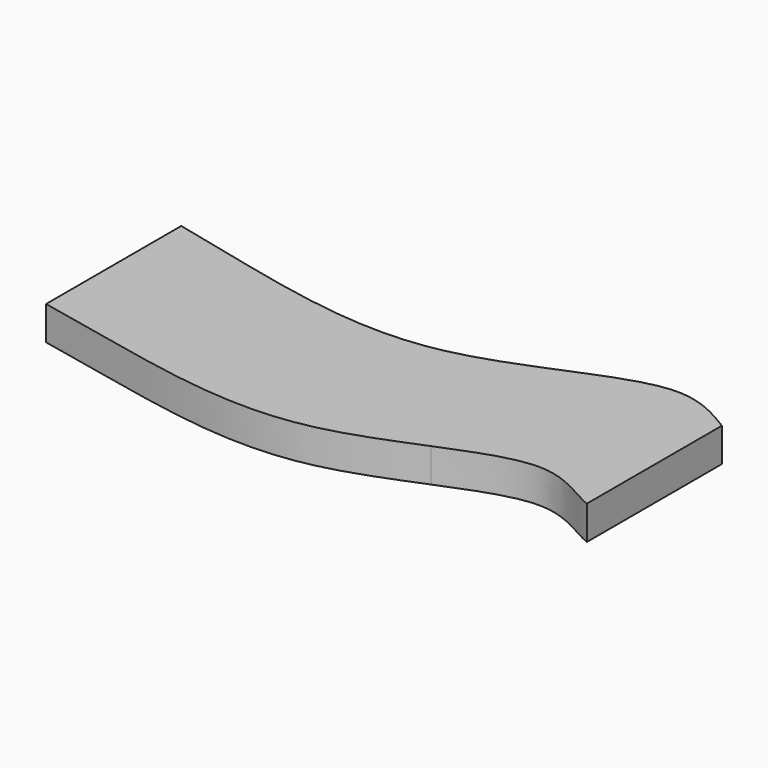
from build123d import *

# Parameters (mm, degrees)
F1_DEPTH = 12.7


with BuildPart() as f1:
    # F0 (on Top) → F1 (new body)
    with BuildSketch(Plane.XY):
        with BuildLine():
            Line((86.7375563659, -9.5659682199), (-57.8874200583, -9.5659682199))
            add(Edge.make_bspline(
                [(-57.8874200583, -9.5659682199), (-15.5372899026, -18.0853269994), (31.1257096461, -32.5612871735), (75.3183046829, -14.2258941015), (86.7375563659, -9.5659682199)],
                knots=[0, 0, 0, 0, 0.4315025265, 0.5995713788, 0.5995713788, 0.5995713788, 0.5995713788], degree=3))
        make_face()
        with BuildLine():
            add(Edge.make_bspline(
                [(-57.8874200583, 53.9340317801), (-15.5372899026, 44.1508069634), (32.8896853146, 28.926877693), (78.4214537847, 48.7759008936), (90.9942217823, 53.9340317801)],
                knots=[0, 0, 0, 0, 0.4320173994, 0.621889754, 0.621889754, 0.621889754, 0.621889754], degree=3))
            Line((-57.8874200583, 53.9340317801), (-57.8874200583, -9.5659682199))
            Line((-57.8874200583, -9.5659682199), (86.7375563659, -9.5659682199))
            add(Edge.make_bspline(
                [(86.7375563659, -9.5659682199), (99.3031424411, -4.4382504505), (123.9704535558, 5.4063635599), (138.3019810991, -6.5732044802), (145.3125799417, -9.5659682199)],
                knots=[0.5995713788, 0.5995713788, 0.5995713788, 0.5995713788, 0.7845120114, 1, 1, 1, 1], degree=3))
            Line((145.3125799417, -9.5659682199), (145.3125799417, 53.9340317801))
            Line((145.3125799417, 53.9340317801), (90.9942217823, 53.9340317801))
        make_face()
        with BuildLine():
            add(Edge.make_bspline(
                [(90.9942217823, 53.9340317801), (101.8393417617, 58.3833740684), (124.5941526904, 67.1056911477), (138.4573890247, 57.9812418233), (145.3125799417, 53.9340317801)],
                knots=[0.621889754, 0.621889754, 0.621889754, 0.621889754, 0.7856713864, 1, 1, 1, 1], degree=3))
            Line((90.9942217823, 53.9340317801), (145.3125799417, 53.9340317801))
        make_face()
    extrude(amount=F1_DEPTH)


solid = f1.part
